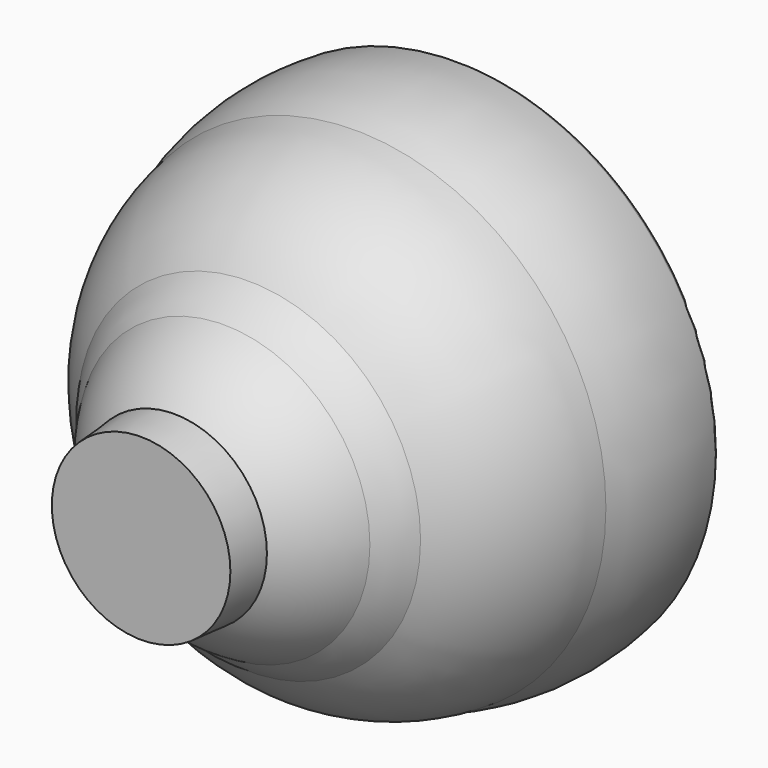
from build123d import *


with BuildPart() as f1:
    # F0 (on Top) → F1 (revolve)
    with BuildSketch(Plane.XY):
        with BuildLine():
            ThreePointArc((40.7424159348, 26.5470985323), (28.7908780092, -15.4600545052), (0, -48.3009666204))
            Line((0, -48.3009666204), (5.2541140467, -48.3009666204))
            Line((5.2541140467, -48.3009666204), (10.5082280934, -48.3009666204))
            ThreePointArc((10.5082280934, -48.3009666204), (16.9224125947, -42.2662683671), (21.9382271171, -35.0274182856))
            ThreePointArc((21.9382271171, -35.0274182856), (24.9300335384, -31.8977695262), (27.4688676, -28.3906441182))
            ThreePointArc((27.4688676, -28.3906441182), (38.9184375516, -15.9691578674), (44.4295145571, 0))
            ThreePointArc((44.4295145571, 0), (47.2558696026, 13.130197065), (46.6417744756, 26.5470985323))
            ThreePointArc((46.6417744756, 26.5470985323), (43.6920952052, 28.4115261947), (40.7424159348, 26.5470985323))
        make_face()
        with BuildLine():
            Line((5.2541140467, -48.3009666204), (0, -48.3009666204))
            ThreePointArc((0, -48.3009666204), (-6.2915292503, -50.7102549458), (-9.3645651468, -56.7056249027))
            Line((-9.3645651468, -56.7056249027), (-9.365316964, -57.150002569))
            Line((-9.365316964, -57.150002569), (9.7708059475, -57.150002569))
            Line((9.7708059475, -57.150002569), (10.5082280934, -48.3009666204))
            Line((10.5082280934, -48.3009666204), (5.2541140467, -48.3009666204))
        make_face()
        with BuildLine():
            ThreePointArc((-9.3645651468, -56.7056249027), (-6.2915292503, -50.7102549458), (0, -48.3009666204))
            Line((0, -48.3009666204), (-9.3503457849, -48.3009666204))
            Line((-9.3503457849, -48.3009666204), (-9.3645651468, -56.7056249027))
        make_face()
    revolve(axis=Axis((-9.3281673471, -35.1919260723, 0), (0.0016918405, 0.9999985688, 0)))


solid = f1.part
